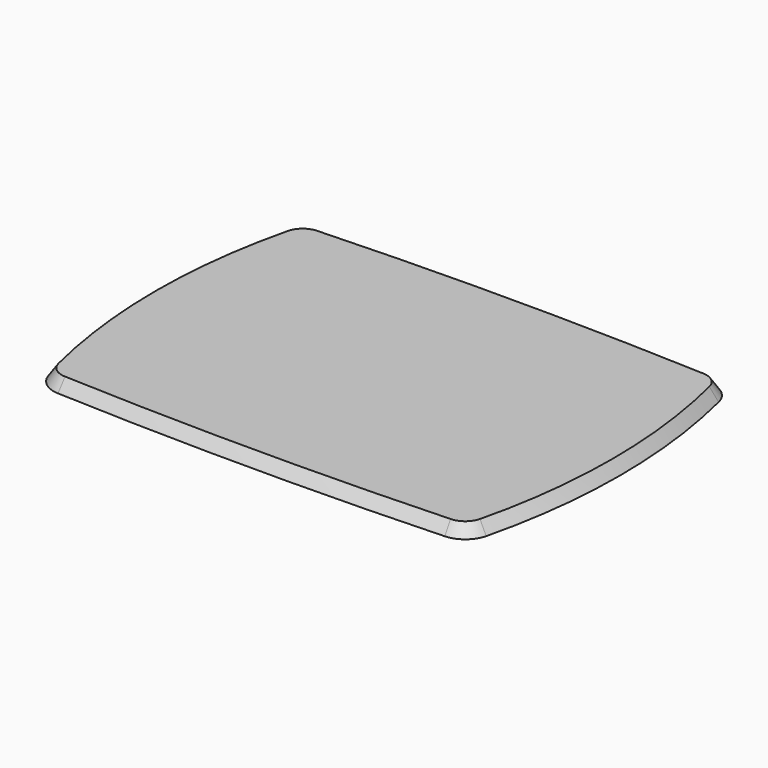
from build123d import *

# Parameters (mm, degrees)
PAD042_DEPTH = 4.75


with BuildPart() as case1:
    # Sketch042 → Pad042 (new body)
    with BuildSketch(Plane.XY.offset(21.75)):
        with BuildLine():
            ThreePointArc((131.340316, 107.243249), (0, 110.109105), (-131.340316, 107.243249))
            ThreePointArc((-131.340316, 107.243249), (-138.945789, 104.356177), (-143.297313, 97.482848))
            ThreePointArc((-143.297313, 97.482848), (-155.054952, 0.033785), (-143.313373, -97.417215))
            ThreePointArc((-143.313373, -97.417215), (-138.877345, -104.411658), (-131.096658, -107.250934))
            ThreePointArc((-131.096658, -107.250934), (0, -110.106161), (131.096658, -107.250934))
            ThreePointArc((131.096658, -107.250934), (138.833073, -104.447134), (143.286208, -97.52738))
            ThreePointArc((143.286208, -97.52738), (155.054743, -0.079681), (143.324086, 97.372584))
            ThreePointArc((143.324086, 97.372584), (138.989661, 104.320204), (131.340316, 107.243249))
        make_face()
    extrude(amount=-PAD042_DEPTH)


with BuildPart() as case_bottom_plane:
    # Sketch040 → Loft002 section 0
    with BuildSketch(Plane.XY.offset(17)):
        with BuildLine():
            ThreePointArc((131.5, 112.710757), (0, 115.580098), (-131.5, 112.710757))
            ThreePointArc((-131.5, 112.710757), (-142.354422, 108.63407), (-148.591078, 98.859511))
            ThreePointArc((-148.591078, 98.859511), (-160.524221, 0.112742), (-148.644672, -98.640489))
            ThreePointArc((-148.644672, -98.640489), (-142.441793, -108.562815), (-131.5, -112.710757))
            ThreePointArc((-131.5, -112.710757), (0, -115.580098), (131.5, -112.710757))
            ThreePointArc((131.5, -112.710757), (142.354422, -108.63407), (148.591078, -98.859511))
            ThreePointArc((148.591078, -98.859511), (160.524221, -0.112742), (148.644672, 98.640489))
            ThreePointArc((148.644672, 98.640489), (142.441793, 108.562815), (131.5, 112.710757))
        make_face()
    # Sketch041 → Loft002 section 1
    with BuildSketch(Plane.XY.offset(25)):
        with BuildLine():
            ThreePointArc((131.340316, 107.243249), (0, 110.109105), (-131.340316, 107.243249))
            ThreePointArc((-131.340316, 107.243249), (-138.945789, 104.356177), (-143.297313, 97.482848))
            ThreePointArc((-143.297313, 97.482848), (-155.054952, 0.033785), (-143.313373, -97.417215))
            ThreePointArc((-143.313373, -97.417215), (-138.877345, -104.411658), (-131.096658, -107.250934))
            ThreePointArc((-131.096658, -107.250934), (0, -110.106161), (131.096658, -107.250934))
            ThreePointArc((131.096658, -107.250934), (138.833073, -104.447134), (143.286208, -97.52738))
            ThreePointArc((143.286208, -97.52738), (155.054743, -0.079681), (143.324086, 97.372584))
            ThreePointArc((143.324086, 97.372584), (138.989661, 104.320204), (131.340316, 107.243249))
        make_face()
    loft()

    # Cut002: cut CASE1
    add(case1.part, mode=Mode.SUBTRACT)


solid = case_bottom_plane.part
